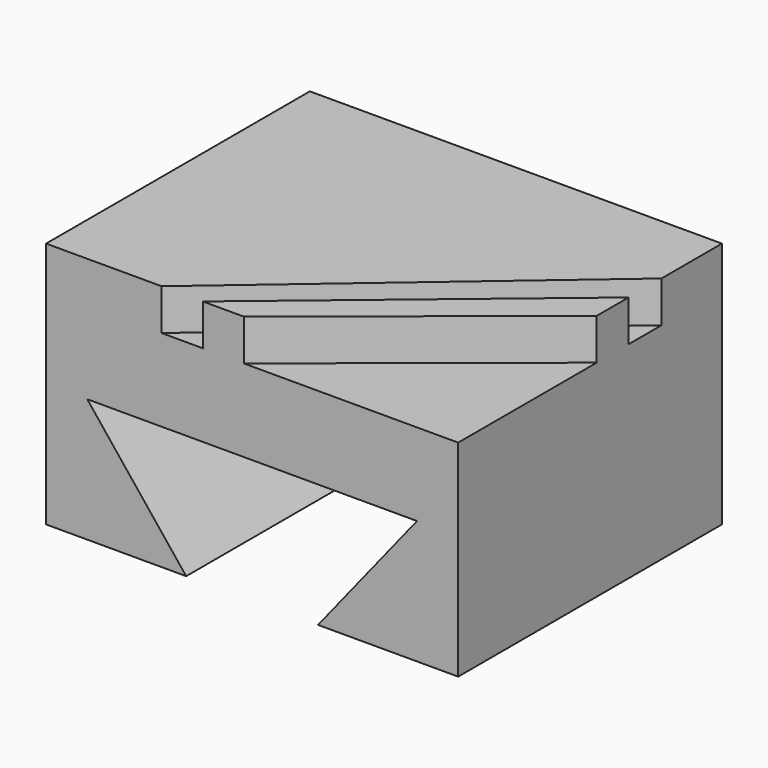
from build123d import *

# Parameters (mm, degrees)
BOX_W           = 50
BOX_H           = 40
BOX_DEPTH       = 30
POCKET_DEPTH    = 40.001
POCKET001_DEPTH = 5
POCKET002_DEPTH = 5


with BuildPart() as part:
    # Box → Box (new body)
    with BuildSketch(Plane.XY):
        with Locations((25, 20)):
            Rectangle(BOX_W, BOX_H)
    extrude(amount=BOX_DEPTH)

    # Sketch → Pocket (cut, through all)
    with BuildSketch(Plane.XZ):
        Polygon((17, 0), (5, 15), (45, 15), (33, 0), align=None)
    extrude(amount=-POCKET_DEPTH, mode=Mode.SUBTRACT)

    # Sketch001 → Pocket001 (cut)
    with BuildSketch(Plane.XY.offset(30)):
        Polygon((50, 0), (24, 0), (50, 21), align=None)
    extrude(amount=-POCKET001_DEPTH, mode=Mode.SUBTRACT)

    # Sketch003 → Pocket002 (cut)
    with BuildSketch(Plane.XY.offset(30)):
        Polygon((19, -0.009107), (14, -0.009107), (50.194458, 31), (50.194458, 26), align=None)
    extrude(amount=-POCKET002_DEPTH, mode=Mode.SUBTRACT)


solid = part.part
